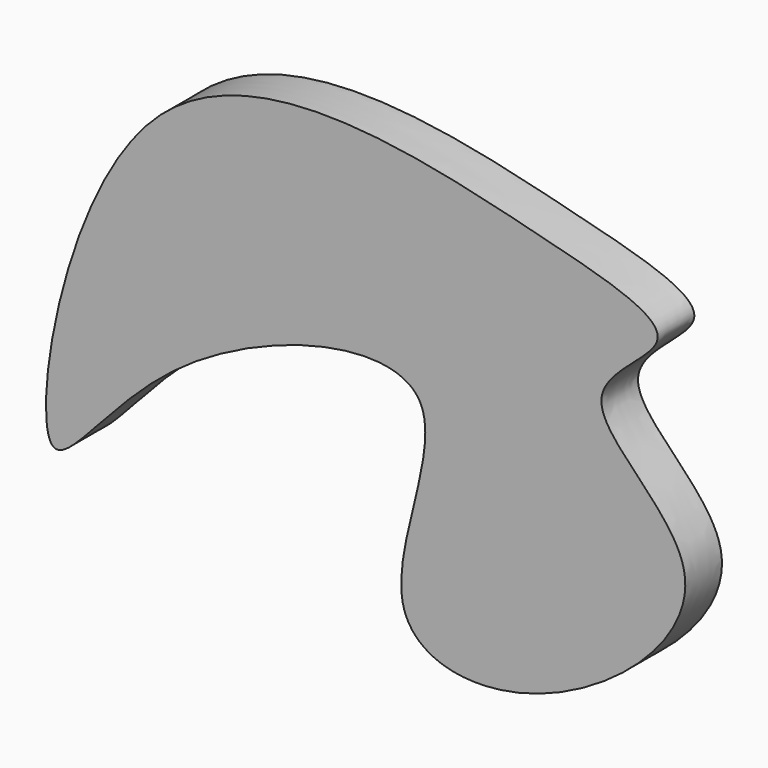
from build123d import *

# Parameters (mm, degrees)
F1_DEPTH = 9.398


with BuildPart() as f1:
    # F0 (on Front) → F1 (new body)
    with BuildSketch(Plane.XZ):
        with BuildLine():
            add(Edge.make_bspline(
                [(-69.6124583483, -9.1411378235), (-66.6516132346, -12.6368045673), (-48.1974875195, 20.2222417001), (23.0647958803, 38.5977560961), (-9.4714065394, -21.3654883393), (32.211864214, -28.5262272391), (76.5611028796, 10.4850877859), (30.7073375019, 34.9606869359), (65.5064992168, 52.181898535), (24.4041502112, 62.8591385977), (-60.1132377856, 83.5293509915), (-73.8577975708, -4.1289569876), (-69.6124583483, -9.1411378235)],
                knots=[0, 0, 0, 0, 0.0914935367, 0.2043309469, 0.3023855298, 0.3861368789, 0.4911902956, 0.5786292242, 0.6460986008, 0.7290870463, 0.8688141105, 1, 1, 1, 1], degree=3))
        make_face()
    extrude(amount=F1_DEPTH)


solid = f1.part
